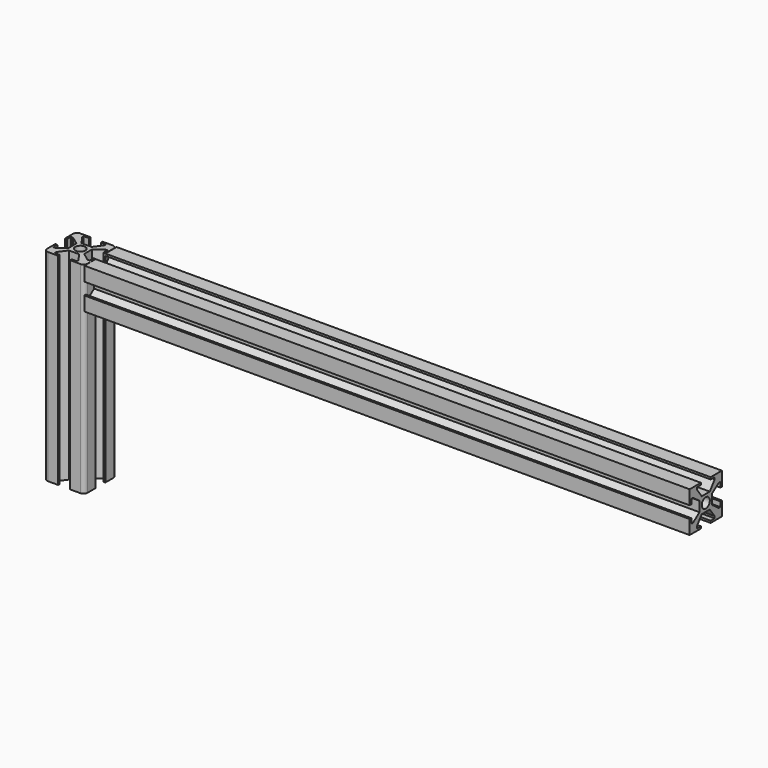
from build123d import *

# Parameters (mm, degrees)
F0_R     = 2.5
F1_DEPTH = 50
F2_R     = 2
F3_R     = 2.5
F4_DEPTH = 300


with BuildPart() as f1:
    # F0 (on Top) → F1 (new body, symmetric)
    with BuildSketch(Plane.XY):
        Polygon((-3, 10), (-10, 10), (-10, 3), (-9, 3), (-9, 5.5), (-8, 5.5), (-3.9, 2.5), (-3.9, -2.5), (-8, -5.5), (-9, -5.5), (-9, -3), (-10, -3), (-10, -10), (-3, -10), (-3, -9), (-5.5, -9), (-5.5, -8), (-2.5, -3.9), (2.5, -3.9), (5.5, -8), (5.5, -9), (3, -9), (3, -10), (10, -10), (10, -3), (9, -3), (9, -5.5), (8, -5.5), (3.9, -2.5), (3.9, 2.5), (8, 5.5), (9, 5.5), (9, 3), (10, 3), (10, 10), (3, 10), (3, 9), (5.5, 9), (5.5, 8), (2.5, 3.9), (-2.5, 3.9), (-5.5, 8), (-5.5, 9), (-3, 9), align=None)
        Circle(F0_R, mode=Mode.SUBTRACT)
    extrude(amount=F1_DEPTH, both=True)

    # F2
    f2_edges = [f1.edges().sort_by_distance(p)[0] for p in [
        (-10, -10, 0),
        (10, -10, 0),
        (10, 10, 0),
        (-10, 10, 0),
    ]]
    fillet(f2_edges, radius=F2_R)


with BuildPart() as f4:
    # F3 (on face) → F4 (new body)
    with BuildSketch(Plane.YZ.offset(10)):
        Polygon((-3, 49.914906), (-10, 49.914906), (-10, 42.914906), (-9, 42.914906), (-9, 45.414906), (-8, 45.414906), (-3.9, 42.414906), (-3.9, 37.414906), (-8, 34.414906), (-9, 34.414906), (-9, 36.914906), (-10, 36.914906), (-10, 29.914906), (-3, 29.914906), (-3, 30.914906), (-5.5, 30.914906), (-5.5, 31.914906), (-2.5, 36.014906), (2.5, 36.014906), (5.5, 31.914906), (5.5, 30.914906), (3, 30.914906), (3, 29.914906), (10, 29.914906), (10, 36.914906), (9, 36.914906), (9, 34.414906), (8, 34.414906), (3.9, 37.414906), (3.9, 42.414906), (8, 45.414906), (9, 45.414906), (9, 42.914906), (10, 42.914906), (10, 49.914906), (3, 49.914906), (3, 48.914906), (5.5, 48.914906), (5.5, 47.914906), (2.5, 43.814906), (-2.5, 43.814906), (-5.5, 47.914906), (-5.5, 48.914906), (-3, 48.914906), align=None)
        with Locations((0, 39.914906)):
            Circle(F3_R, mode=Mode.SUBTRACT)
    extrude(amount=F4_DEPTH)


solid = Compound([f1.part, f4.part])
